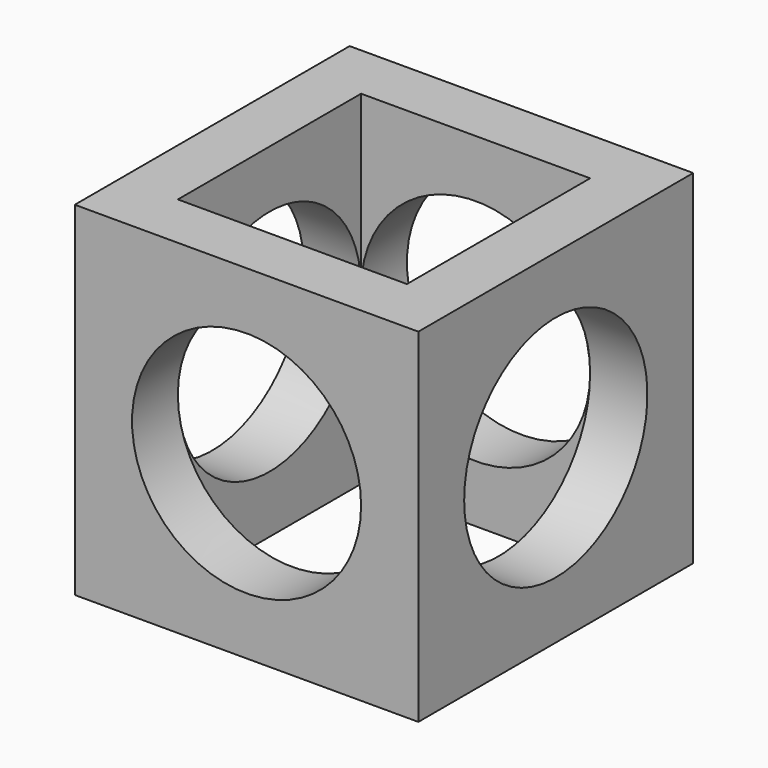
from build123d import *

# Parameters (mm, degrees)
F0_W     = 76.2
F0_H     = 76.2
F1_DEPTH = 38.1
F2_R     = 25.4
F3_DEPTH = 76.2
F4_R     = 25.4
F5_DEPTH = 76.2
F6_W     = 50.8
F6_H     = 50.8
F7_DEPTH = 76.2


with BuildPart() as f1:
    # F0 (on Front) → F1 (new body, symmetric)
    with BuildSketch(Plane.XZ):
        Rectangle(F0_W, F0_H)
    extrude(amount=F1_DEPTH, both=True)

    # F2 (on face) → F3 (cut, through all)
    with BuildSketch(Plane(origin=(-38.1, 0, 0), x_dir=(0, -1, 0), z_dir=(-1, 0, 0))):
        Circle(F2_R)
    extrude(amount=-F3_DEPTH, mode=Mode.SUBTRACT)

    # F4 (on face) → F5 (cut)
    with BuildSketch(Plane.XZ.offset(38.1)):
        Circle(F4_R)
    extrude(amount=-F5_DEPTH, mode=Mode.SUBTRACT)

    # F6 (on face) → F7 (cut)
    with BuildSketch(Plane.XY.offset(38.1)):
        Rectangle(F6_W, F6_H)
    extrude(amount=-F7_DEPTH, mode=Mode.SUBTRACT)


solid = f1.part
